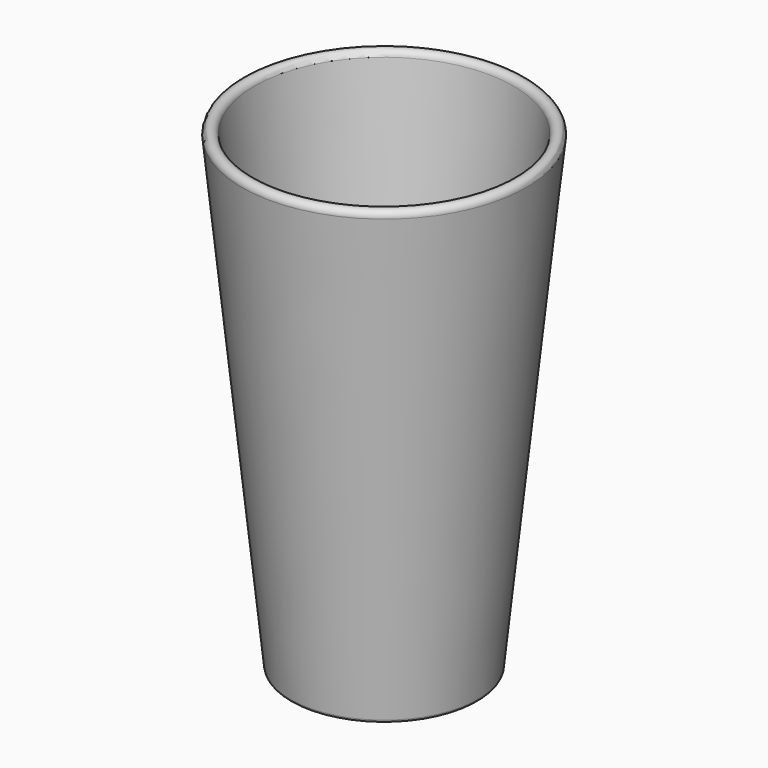
from build123d import *


with BuildPart() as f1:
    # F0 (on Front) → F1 (revolve)
    with BuildSketch(Plane.XZ):
        with BuildLine():
            Line((0, 2.169048), (0, 6.169048))
            Line((0, 6.169048), (-21.568638, 6.169048))
            ThreePointArc((-21.568638, 6.169048), (-24.917051, 7.45581), (-26.542019, 10.653794))
            Line((-26.542019, 10.653794), (-40.792739, 148.206101))
            ThreePointArc((-40.792739, 148.206101), (-42.988192, 149.989352), (-44.771443, 147.793899))
            Line((-44.771443, 147.793899), (-29.552598, 0.896949))
            ThreePointArc((-29.552598, 0.896949), (-29.227604, 0.257352), (-28.557922, 0))
            Line((-28.557922, 0), (-24.557922, 0))
            Line((-24.557922, 0), (-21.31824, 2.169048))
            Line((-21.31824, 2.169048), (0, 2.169048))
        make_face()
    revolve(axis=Axis((0, 0, 4.169048), (0, 0, -1)))


solid = f1.part
